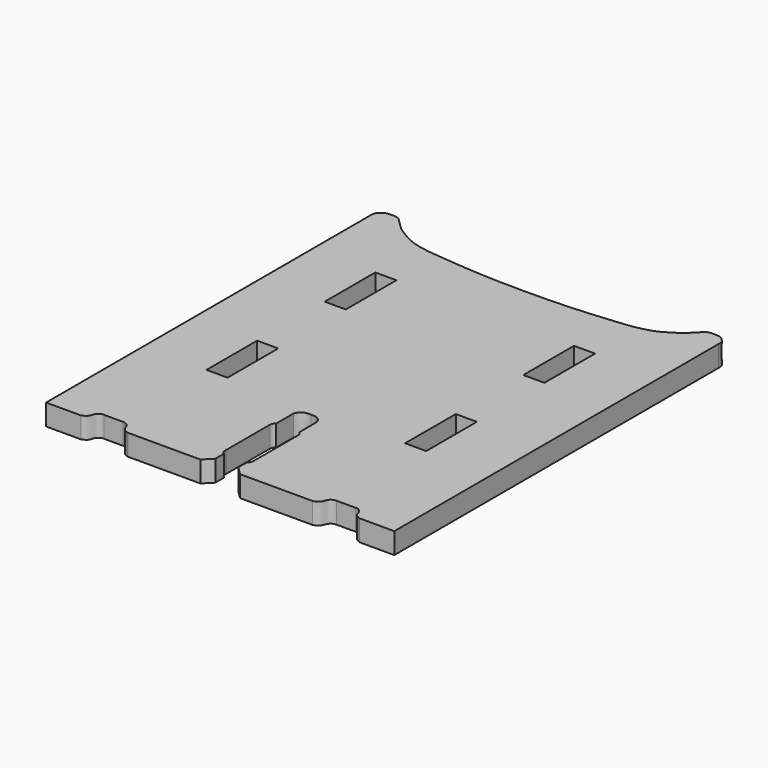
from build123d import *

# Parameters (mm, degrees)
F0_W     = 25.4
F0_H     = 76.2
F1_DEPTH = 25.4


with BuildPart() as f1:
    # F0 (on Top) → F1 (new body)
    with BuildSketch(Plane.XY):
        with BuildLine():
            Line((27.94, 497.7397918701), (27.94, 9.5907943323))
            Line((27.94, 9.5907943323), (69.7911381721, 9.5907943323))
            add(Edge.make_bspline(
                [(69.7911381721, 9.5907943323), (70.9729934459, 10.0835662213), (73.2638391143, 11.0387291523), (76.0531922549, 13.1198589485), (77.3043146801, 16.3095639856), (78.1586914175, 19.7324295036), (80.1648624939, 22.0094954337), (83.083199723, 24.2054748798), (85.1305401259, 24.1147167625), (86.1102715135, 24.0712855011)],
                knots=[0, 0, 0, 0, 0.1523394582, 0.2952867375, 0.4386532905, 0.5842130124, 0.7200812192, 0.8660480616, 1, 1, 1, 1], degree=3))
            Line((86.1102715135, 24.0712855011), (109.0143173933, 24.0712855011))
            add(Edge.make_bspline(
                [(109.0143173933, 24.0712855011), (110.0985186242, 23.9825349885), (112.2560336215, 23.8059251891), (115.0539241878, 22.1631513646), (117.059276202, 19.5356215947), (117.7142664748, 16.750232963), (119.0891647621, 14.1596776932), (120.9462932416, 11.9998702806), (123.6060037354, 10.3262878367), (125.4719582208, 9.8330238716), (126.3882815838, 9.5907943323)],
                knots=[0, 0, 0, 0, 0.1292897071, 0.257281097, 0.3862908082, 0.5077721085, 0.6300219578, 0.7514199544, 0.8779285856, 1, 1, 1, 1], degree=3))
            Line((126.3882815838, 9.5907943323), (213.6941552162, 9.5907943323))
            Line((213.6941552162, 9.5907943323), (223.5962897539, 19.6436345577))
            Line((223.5962897539, 19.6436345577), (223.5962897539, 32.6440893114))
            add(Edge.make_bspline(
                [(223.5962897539, 32.6440893114), (223.2344538971, 32.9036074593), (222.3939650498, 33.5064280612), (220.3058365881, 35.3541948922), (220.3781694251, 37.9445645771), (220.4183936119, 39.3850654364)],
                knots=[0, 0, 0, 0, 0.2512535266, 0.5836231621, 1, 1, 1, 1], degree=3))
            Line((220.4183936119, 39.3850654364), (220.4183936119, 106.0134544969))
            add(Edge.make_bspline(
                [(220.4183936119, 106.0134544969), (220.6545980862, 107.1199368742), (221.1144124211, 109.2739030935), (222.7079380521, 110.5396807066), (223.4828770161, 111.1552342772)],
                knots=[0, 0, 0, 0, 0.5136953251, 1, 1, 1, 1], degree=3))
            Line((223.4828770161, 111.1552342772), (223.4828770161, 137.551933527))
            add(Edge.make_bspline(
                [(223.4828770161, 137.551933527), (223.8918024102, 138.7241605128), (224.7454091098, 141.1711125069), (228.1337150151, 144.3385407224), (232.2183832523, 146.0062063677), (235.6763179785, 145.9443569993), (237.49, 145.9119170904)],
                knots=[0, 0, 0, 0, 0.2304795373, 0.4811119095, 0.7278439081, 1, 1, 1, 1], degree=3))
            add(Edge.make_bspline(
                [(251.4971229839, 137.551933527), (251.0881975898, 138.7241605128), (250.2345908902, 141.1711125069), (246.8462849849, 144.3385407224), (242.7616167477, 146.0062063677), (239.3036820215, 145.9443569993), (237.49, 145.9119170904)],
                knots=[0, 0, 0, 0, 0.2304795373, 0.4811119095, 0.7278439081, 1, 1, 1, 1], degree=3))
            Line((251.4971229839, 137.551933527), (251.4971229839, 111.1552342772))
            add(Edge.make_bspline(
                [(254.5616063881, 106.0134544969), (254.3254019138, 107.1199368742), (253.8655875789, 109.2739030935), (252.2720619479, 110.5396807066), (251.4971229839, 111.1552342772)],
                knots=[0, 0, 0, 0, 0.5136953251, 1, 1, 1, 1], degree=3))
            Line((254.5616063881, 106.0134544969), (254.5616063881, 39.3850654364))
            add(Edge.make_bspline(
                [(251.3837102461, 32.6440893114), (251.7455461029, 32.9036074593), (252.5860349502, 33.5064280612), (254.6741634119, 35.3541948922), (254.6018305749, 37.9445645771), (254.5616063881, 39.3850654364)],
                knots=[0, 0, 0, 0, 0.2512535266, 0.5836231621, 1, 1, 1, 1], degree=3))
            Line((251.3837102461, 32.6440893114), (251.3837102461, 19.6436345577))
            Line((251.3837102461, 19.6436345577), (261.2858447838, 9.5907943323))
            Line((261.2858447838, 9.5907943323), (348.5917184162, 9.5907943323))
            add(Edge.make_bspline(
                [(365.9656826067, 24.0712855011), (364.8814813758, 23.9825349885), (362.7239663785, 23.8059251891), (359.9260758122, 22.1631513646), (357.920723798, 19.5356215947), (357.2657335252, 16.750232963), (355.8908352379, 14.1596776932), (354.0337067584, 11.9998702806), (351.3739962646, 10.3262878367), (349.5080417792, 9.8330238716), (348.5917184162, 9.5907943323)],
                knots=[0, 0, 0, 0, 0.1292897071, 0.257281097, 0.3862908082, 0.5077721085, 0.6300219578, 0.7514199544, 0.8779285856, 1, 1, 1, 1], degree=3))
            Line((365.9656826067, 24.0712855011), (388.8697284865, 24.0712855011))
            add(Edge.make_bspline(
                [(405.1888618279, 9.5907943323), (404.0070065541, 10.0835662213), (401.7161608857, 11.0387291523), (398.9268077451, 13.1198589485), (397.6756853199, 16.3095639856), (396.8213085825, 19.7324295036), (394.8151375061, 22.0094954337), (391.896800277, 24.2054748798), (389.8494598741, 24.1147167625), (388.8697284865, 24.0712855011)],
                knots=[0, 0, 0, 0, 0.1523394582, 0.2952867375, 0.4386532905, 0.5842130124, 0.7200812192, 0.8660480616, 1, 1, 1, 1], degree=3))
            Line((405.1888618279, 9.5907943323), (447.04, 9.5907943323))
            Line((447.04, 9.5907943323), (447.04, 497.7397918701))
            add(Edge.make_bspline(
                [(447.04, 497.7397918701), (447.0840639668, 498.5719456887), (447.1733070187, 500.2573124849), (446.5132567764, 502.8595849038), (445.3671624627, 504.7750376491), (443.7644560307, 506.2486521784), (441.368764259, 508.8320751389), (437.3310840176, 510.4358112402), (432.8457702519, 510.5260285796), (426.2168035945, 510.7873084297), (421.7027027656, 508.7994622807), (418.5730980083, 504.915225787), (414.0058714028, 501.0582603999), (407.335065825, 493.4051783503), (397.7920159871, 488.2989117697), (388.8460524174, 482.0240080075), (373.8033876999, 476.6712378868), (353.5387978077, 473.2515003566), (334.3966924016, 472.1851360377), (305.5635210363, 468.9411513843), (262.4238762665, 467.293202877), (236.3750669765, 467.3699736595)],
                knots=[0, 0, 0, 0, 0.027468304, 0.0556317432, 0.0810607175, 0.1063480068, 0.1385222482, 0.1738825689, 0.2109046748, 0.2552097269, 0.2929197512, 0.3305310296, 0.3727487257, 0.4275786882, 0.4843953058, 0.5410513046, 0.6098091335, 0.6883034128, 0.7627327771, 0.8540965739, 1, 1, 1, 1], degree=3))
            add(Edge.make_bspline(
                [(27.94, 497.7397918701), (27.8958342727, 498.5738674499), (27.8067416397, 500.2563935647), (28.4667314683, 502.8598069048), (29.6128405068, 504.774981567), (31.2155429347, 506.2486717227), (33.6112360768, 508.8320687608), (37.6489158919, 510.4358130998), (42.1342297473, 510.5260279558), (48.7631965411, 510.787308584), (53.2772967914, 508.7994622303), (56.406903741, 504.9152258504), (60.974120218, 501.058260146), (67.6449764752, 493.4051796121), (77.1878214495, 488.2989069253), (86.1346057743, 482.0240276203), (101.1733793918, 476.6711415533), (121.4547784985, 473.2519049004), (140.5312229551, 472.1835840311), (169.5082305233, 468.9742158558), (210.6784056495, 467.2942407239), (236.3750669765, 467.3699736595)],
                knots=[0, 0, 0, 0, 0.0275317388, 0.0557602182, 0.0812479177, 0.106593605, 0.138842149, 0.1742841302, 0.2113917343, 0.2557991037, 0.2935962149, 0.3312943521, 0.373609545, 0.4285661308, 0.4855139597, 0.5423007988, 0.6112174158, 0.6898929685, 0.7644942186, 0.8560690093, 1, 1, 1, 1], degree=3))
        make_face()
        with Locations((116.84, 193.7738674499)):
            Rectangle(F0_W, F0_H, mode=Mode.SUBTRACT)
        with Locations((355.9101339531, 193.7738674499)):
            Rectangle(F0_W, F0_H, mode=Mode.SUBTRACT)
        with Locations((116.84, 371.5738674499)):
            Rectangle(F0_W, F0_H, mode=Mode.SUBTRACT)
        with Locations((355.9101339531, 371.5738674499)):
            Rectangle(F0_W, F0_H, mode=Mode.SUBTRACT)
    extrude(amount=F1_DEPTH)


solid = f1.part
